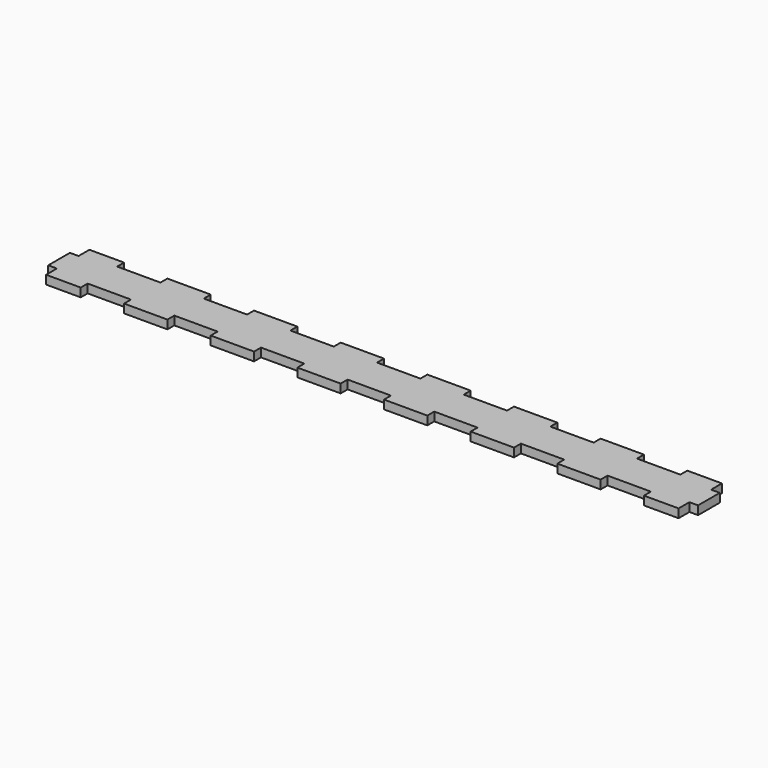
from build123d import *

# Parameters (mm, degrees)
F1_DEPTH = 4


with BuildPart() as f1:
    # F0 (on Top) → F1 (new body)
    with BuildSketch(Plane.XY):
        Polygon((200, 11.244204), (216, 11.244204), (216, 17.494204), (220, 17.494204), (220, 29.994204), (216, 29.994204), (216, 36.244204), (200, 36.244204), (200, 32.244204), (180, 32.244204), (180, 36.244204), (160, 36.244204), (160, 32.244204), (140, 32.244204), (140, 36.244204), (120, 36.244204), (120, 32.244204), (100, 32.244204), (100, 36.244204), (80, 36.244204), (80, 32.244204), (60, 32.244204), (60, 36.244204), (40, 36.244204), (40, 32.244204), (20, 32.244204), (20, 36.244204), (0, 36.244204), (0, 32.244204), (-20, 32.244204), (-20, 36.244204), (-40, 36.244204), (-40, 32.244204), (-60, 32.244204), (-60, 36.244204), (-76, 36.244204), (-76, 29.994204), (-80, 29.994204), (-80, 17.494204), (-76, 17.494204), (-76, 11.244204), (-60, 11.244204), (-60, 15.244204), (-40, 15.244204), (-40, 11.244204), (-20, 11.244204), (-20, 15.244204), (0, 15.244204), (0, 11.244204), (20, 11.244204), (20, 15.244204), (40, 15.244204), (40, 11.244204), (60, 11.244204), (60, 15.244204), (80, 15.244204), (80, 11.244204), (100, 11.244204), (100, 15.244204), (120, 15.244204), (120, 11.244204), (140, 11.244204), (140, 15.244204), (160, 15.244204), (160, 11.244204), (180, 11.244204), (180, 15.244204), (200, 15.244204), align=None)
    extrude(amount=F1_DEPTH)


solid = f1.part
